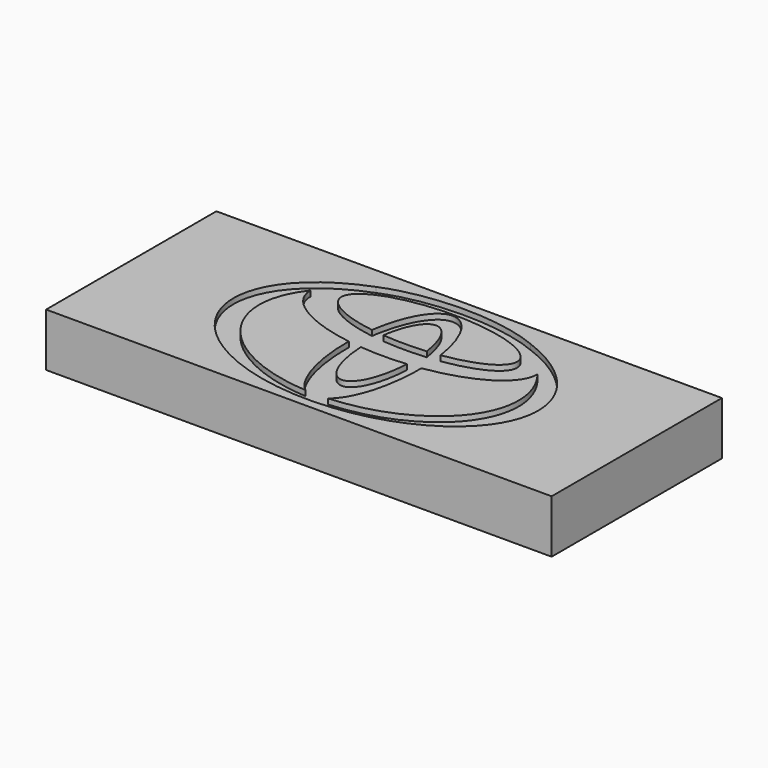
from build123d import *

# Parameters (mm, degrees)
F0_W     = 24.13
F0_H     = 10.16
F2_DEPTH = 2.54
F3_DEPTH = 0.254


with BuildPart() as f2:
    # F0 (on Top) → F2 (new body)
    with BuildSketch(Plane.XY):
        with Locations((12.065, -5.08)):
            Rectangle(F0_W, F0_H)
    extrude(amount=-F2_DEPTH)

    # F1 (on Top) → F3 (cut)
    with BuildSketch(Plane.XY):
        with BuildLine():
            add(Edge.make_bspline(
                [(8.4657929971, -1.0478082096), (-14.5786610899, -9.7377153717), (12.1497893706, -9.7377153717), (38.8782398311, -9.7377153717), (15.8337857441, -1.0478082096)],
                knots=[2.102056207, 2.102056207, 2.102056207, 4.7123889804, 4.7123889804, 7.3227217538, 7.3227217538, 7.3227217538], degree=2, weights=[1, 0.2625171666, 1, 0.2625171666, 1]))
            add(Edge.make_bspline(
                [(15.8337857441, -1.0478082096), (12.1497893706, 0.3414018081), (8.4657929971, -1.0478082096)],
                knots=[1.0395364466, 1.0395364466, 1.0395364466, 2.102056207, 2.102056207, 2.102056207], degree=2, weights=[1, 0.8621694745, 1]))
        make_face()
        with BuildLine():
            add(Edge.make_bspline(
                [(6.7375296922, -2.7946639807), (6.6912513592, -4.5547321645), (10.4154872997, -5.1187276263)],
                knots=[3.1298212757, 3.1298212757, 3.1298212757, 4.3862189448, 4.3862189448, 4.3862189448], degree=2, weights=[1, 0.8090873442, 1]))
            add(Edge.make_bspline(
                [(10.4154872997, -5.1187276263), (10.3755449532, -8.2304178079), (11.6107446638, -9.197573501)],
                knots=[1.5400547916, 1.5400547916, 1.5400547916, 2.8256982249, 2.8256982249, 2.8256982249], degree=2, weights=[1, 0.8004074506, 1]))
            add(Edge.make_bspline(
                [(6.7375296922, -2.7946639807), (2.1044091607, -8.617624256), (11.6107446638, -9.197573501)],
                knots=[2.6346337174, 2.6346337174, 2.6346337174, 4.6252084144, 4.6252084144, 4.6252084144], degree=2, weights=[1, 0.5442618509, 1]))
        make_face(mode=Mode.SUBTRACT)
        with BuildLine():
            add(Edge.make_bspline(
                [(11.051641262, -5.1960937268), (11.1585612733, -7.7051730692), (12.1497893706, -7.7051730692), (13.1410174679, -7.7051730692), (13.2479374792, -5.1960937268)],
                knots=[4.820465459, 4.820465459, 4.820465459, 6.2831853072, 6.2831853072, 7.7459051554, 7.7459051554, 7.7459051554], degree=2, weights=[1, 0.7442668215, 1, 0.7442668215, 1]))
            add(Edge.make_bspline(
                [(11.051641262, -5.1960937268), (12.1497893706, -5.2979622052), (13.2479374792, -5.1960937268)],
                knots=[4.5080845994, 4.5080845994, 4.5080845994, 4.9166933613, 4.9166933613, 4.9166933613], degree=2, weights=[1, 0.9792023528, 1]))
        make_face(mode=Mode.SUBTRACT)
        with BuildLine():
            add(Edge.make_bspline(
                [(12.6888340773, -9.197573501), (13.924033788, -8.2304178079), (13.8840914415, -5.1187276263)],
                knots=[3.4574870822, 3.4574870822, 3.4574870822, 4.7431305156, 4.7431305156, 4.7431305156], degree=2, weights=[1, 0.8004074506, 1]))
            add(Edge.make_bspline(
                [(13.8840914415, -5.1187276263), (17.608327382, -4.5547321645), (17.562049049, -2.7946639807)],
                knots=[5.038559016, 5.038559016, 5.038559016, 6.2949566851, 6.2949566851, 6.2949566851], degree=2, weights=[1, 0.8090873442, 1]))
            add(Edge.make_bspline(
                [(12.6888340773, -9.197573501), (22.1951695805, -8.617624256), (17.562049049, -2.7946639807)],
                knots=[4.7995695463, 4.7995695463, 4.7995695463, 6.7901442434, 6.7901442434, 6.7901442434], degree=2, weights=[1, 0.5442618509, 1]))
        make_face(mode=Mode.SUBTRACT)
        with BuildLine():
            add(Edge.make_bspline(
                [(13.1872098156, -3.9269217463), (12.1497893706, 3.2971973652), (11.1123689256, -3.9269217463)],
                knots=[1.9213345944, 1.9213345944, 1.9213345944, 4.3618507128, 4.3618507128, 4.3618507128], degree=2, weights=[1, 0.3434033916, 1]))
            add(Edge.make_bspline(
                [(11.1123689256, -3.9269217463), (12.1497893706, -4.0208485925), (13.1872098156, -3.9269217463)],
                knots=[4.4623227822, 4.4623227822, 4.4623227822, 4.9624551786, 4.9624551786, 4.9624551786], degree=2, weights=[1, 0.9688960419, 1]))
        make_face(mode=Mode.SUBTRACT)
        with BuildLine():
            add(Edge.make_bspline(
                [(13.7848709754, -3.8554493307), (18.7878984023, -3.1042341491), (15.4688438864, -1.5793413647), (12.1497893706, -0.0544485804), (8.8307348548, -1.5793413647), (5.5116803389, -3.1042341491), (10.5147077658, -3.8554493307)],
                knots=[5.1130588482, 5.1130588482, 5.1130588482, 6.9403407054, 6.9403407054, 8.7676225626, 8.7676225626, 10.5949044198, 10.5949044198, 10.5949044198], degree=2, weights=[1, 0.6108671611, 1, 0.6108671611, 1, 0.6108671611, 1]))
            add(Edge.make_bspline(
                [(13.7848709754, -3.8554493307), (12.1497893706, 7.1748808552), (10.5147077658, -3.8554493307)],
                knots=[5.0536184378, 5.0536184378, 5.0536184378, 7.5127521766, 7.5127521766, 7.5127521766], degree=2, weights=[1, 0.3346459165, 1]))
        make_face(mode=Mode.SUBTRACT)
        with BuildLine():
            add(Edge.make_bspline(
                [(15.8337857441, -1.0478082096), (12.1497893706, 0.3414018081), (8.4657929971, -1.0478082096)],
                knots=[1.0395364466, 1.0395364466, 1.0395364466, 2.102056207, 2.102056207, 2.102056207], degree=2, weights=[1, 0.8621694745, 1]))
            add(Edge.make_bspline(
                [(15.8337857441, -1.0478082096), (12.1497893706, 0.4844966514), (8.4657929971, -1.0478082096)],
                knots=[0.8221754192, 0.8221754192, 0.8221754192, 2.3194172344, 2.3194172344, 2.3194172344], degree=2, weights=[1, 0.7326282156, 1]))
        make_face()
    extrude(amount=-F3_DEPTH, mode=Mode.SUBTRACT)


solid = f2.part
